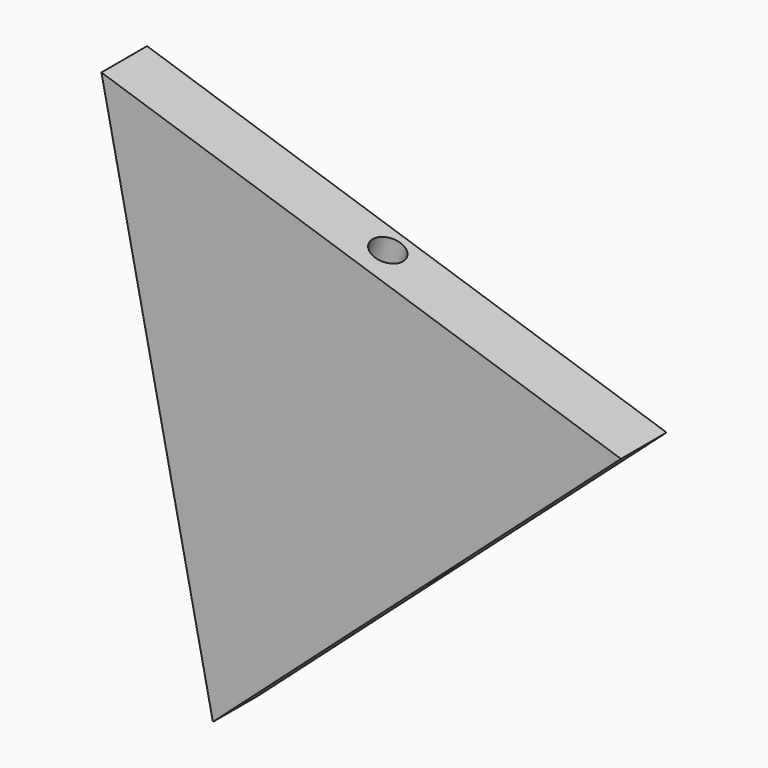
from build123d import *

# Parameters (mm, degrees)
F1_DEPTH  = 7.5
F2_R      = 2.5
F3_DEPTH  = 25
F4_R      = 2.5
F5_DEPTH  = 30
F6_R      = 2.5
F7_DEPTH  = 30
F8_R      = 2.5
F9_DEPTH  = 30
F11_DEPTH = 1.5


with BuildPart() as f1:
    # F0 (on Front) → F1 (new body)
    with BuildSketch(Plane.XZ):
        Polygon((48.7611944014, 10.1488404912), (-33.169750885, 37.1540128248), (-15.5914435163, -47.3028533161), align=None)
    extrude(amount=F1_DEPTH)

    # F2 (on face) → F3 (cut)
    with BuildSketch(Plane.XZ.offset(7.5)):
        Circle(F2_R)
    extrude(amount=-F3_DEPTH, mode=Mode.SUBTRACT)

    # F4 (on face) → F5 (cut)
    with BuildSketch(Plane(origin=(-24.3805972007, 0, -5.0744202456), x_dir=(0, -1, 0), z_dir=(-0.9790194551, 0, -0.2037667947))):
        with Locations((3.75, 0)):
            Circle(F4_R)
    extrude(amount=-F5_DEPTH, mode=Mode.SUBTRACT)

    # F6 (on face) → F7 (cut)
    with BuildSketch(Plane(origin=(7.7957217582, 0, 23.651426658), x_dir=(0.9497391162, 0, -0.3130425069), z_dir=(0.3130425069, 0, 0.9497391162))):
        with Locations((0, -3.75)):
            Circle(F6_R)
    extrude(amount=-F7_DEPTH, mode=Mode.SUBTRACT)

    # F8 (on face) → F9 (cut)
    with BuildSketch(Plane(origin=(16.5848754425, 0, -18.5770064124), x_dir=(0.7459723216, 0, 0.6659769482), z_dir=(0.6659769482, 0, -0.7459723216))):
        with Locations((0, 3.75)):
            Circle(F8_R)
    extrude(amount=-F9_DEPTH, mode=Mode.SUBTRACT)

    # F10 (on face) → F11 (join)
    with BuildSketch(Plane.XZ.offset(7.5)):
        Polygon((48.7611944014, 10.1488404912), (-33.169750885, 37.1540128248), (-15.5914435163, -47.3028533161), align=None)
    extrude(amount=F11_DEPTH)


solid = f1.part
